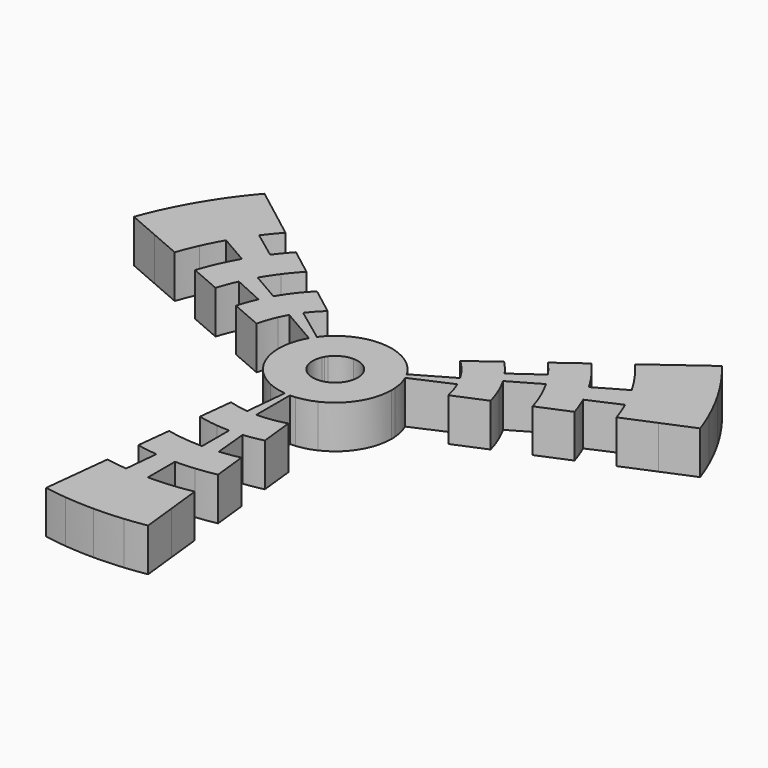
from build123d import *

# Parameters (mm, degrees)
F1_DEPTH = 4.826


with BuildPart() as f1:
    # F0 (on Top) → F1 (new body)
    with BuildSketch(Plane.XY):
        with BuildLine():
            Line((-27.43190136, 12.4743187652), (-23.9636562535, 10.8971770846))
            ThreePointArc((-23.9636562535, 10.8971770846), (-23.4083038641, 12.0439445221), (-22.7981132352, 13.1624968134))
            Line((-22.7981132352, 13.1624968134), (-26.0976700236, 15.0674968134))
            ThreePointArc((-26.0976700236, 15.0674968134), (-26.7961731638, 13.7870571427), (-27.43190136, 12.4743187652))
        make_face()
        with BuildLine():
            Line((-6.3287775581, 0.5187240309), (-2.1997045256, -1.27))
            ThreePointArc((-2.1997045256, -1.27), (-2.5370247924, -0.1229032258), (-2.3121634044, 1.0514277871))
            Line((-2.3121634044, 1.0514277871), (-5.7804085109, 2.6285694678))
            ThreePointArc((-5.7804085109, 2.6285694678), (-6.1458082264, 1.5973544518), (-6.3287775581, 0.5187240309))
        make_face()
        with BuildLine():
            Line((-5.7804085109, 2.6285694678), (-2.3121634044, 1.0514277871))
            ThreePointArc((-2.3121634044, 1.0514277871), (-2.2585795331, 1.1620750804), (-2.1997045256, 1.27))
            Line((-2.1997045256, 1.27), (-5.499261314, 3.175))
            ThreePointArc((-5.499261314, 3.175), (-5.6464488328, 2.9051877011), (-5.7804085109, 2.6285694678))
        make_face()
        with BuildLine():
            Line((-2.0381194276, 1.5158064516), (-5.0952985691, 3.789516129))
            ThreePointArc((-5.0952985691, 3.789516129), (-5.3061834022, 3.4881109075), (-5.499261314, 3.175))
            Line((-5.499261314, 3.175), (-2.1997045256, 1.27))
            ThreePointArc((-2.1997045256, 1.27), (-2.1224733609, 1.395244363), (-2.0381194276, 1.5158064516))
        make_face()
        with BuildLine():
            Line((0, 2.54), (-3.5576053522, 5.2598425982))
            ThreePointArc((-3.5576053522, 5.2598425982), (-4.3884680185, 4.5895368449), (-5.0952985691, 3.789516129))
            Line((-5.0952985691, 3.789516129), (-2.0381194276, 1.5158064516))
            ThreePointArc((-2.0381194276, 1.5158064516), (-1.1404936679, 2.2695537433), (0, 2.54))
        make_face()
        with BuildLine():
            Line((0, 2.54), (3.6351246845, 5.2065697468))
            ThreePointArc((3.6351246845, 5.2065697468), (0.0470298936, 6.3498258393), (-3.5576053522, 5.2598425982))
            Line((-3.5576053522, 5.2598425982), (0, 2.54))
        make_face()
        with BuildLine():
            Line((2.0666448761, 1.4766783523), (5.1666121902, 3.6916958808))
            ThreePointArc((5.1666121902, 3.6916958808), (4.4655742867, 4.514548293), (3.6351246845, 5.2065697468))
            Line((3.6351246845, 5.2065697468), (0, 2.54))
            ThreePointArc((0, 2.54), (1.1620750804, 2.2585795331), (2.0666448761, 1.4766783523))
        make_face()
        with BuildLine():
            Line((2.1997045256, 1.27), (5.499261314, 3.175))
            ThreePointArc((5.499261314, 3.175), (5.3391907683, 3.4373742798), (5.1666121902, 3.6916958808))
            Line((5.1666121902, 3.6916958808), (2.0666448761, 1.4766783523))
            ThreePointArc((2.0666448761, 1.4766783523), (2.1356763073, 1.3749497119), (2.1997045256, 1.27))
        make_face()
        with BuildLine():
            Line((2.3243553032, 1.0241935484), (5.810888258, 2.560483871))
            ThreePointArc((5.810888258, 2.560483871), (5.663415785, 2.871971735), (5.499261314, 3.175))
            Line((5.499261314, 3.175), (2.1997045256, 1.27))
            ThreePointArc((2.1997045256, 1.27), (2.265366314, 1.148788694), (2.3243553032, 1.0241935484))
        make_face()
        with BuildLine():
            Line((2.1997045256, -1.27), (6.3331285888, 0.4625821845))
            ThreePointArc((6.3331285888, 0.4625821845), (6.1619464591, 1.5339217173), (5.810888258, 2.560483871))
            Line((5.810888258, 2.560483871), (2.3243553032, 1.0241935484))
            ThreePointArc((2.3243553032, 1.0241935484), (2.4855042215, 0.5233247223), (2.54, 0))
            ThreePointArc((2.54, 0), (2.4534515988, -0.6574003746), (2.1997045256, -1.27))
        make_face()
        with BuildLine():
            ThreePointArc((2.6919701235, -5.751156132), (5.3580085052, -3.4079678487), (6.35, 0))
            ThreePointArc((6.35, 0), (6.3457807455, 0.2314448757), (6.3331285888, 0.4625821845))
            Line((6.3331285888, 0.4625821845), (2.1997045256, -1.27))
            Line((2.1997045256, -1.27), (2.6919701235, -5.751156132))
        make_face()
        with BuildLine():
            ThreePointArc((0.614516129, -6.3201954026), (1.6775470955, -6.1244049297), (2.6919701235, -5.751156132))
            Line((2.6919701235, -5.751156132), (2.1997045256, -1.27))
            ThreePointArc((2.1997045256, -1.27), (1.3750713253, -2.1355980076), (0.2458064516, -2.528078161))
            Line((0.2458064516, -2.528078161), (0.614516129, -6.3201954026))
        make_face()
        with BuildLine():
            ThreePointArc((0, -6.35), (0.3076192398, -6.3425444739), (0.614516129, -6.3201954026))
            Line((0.614516129, -6.3201954026), (0.2458064516, -2.528078161))
            ThreePointArc((0.2458064516, -2.528078161), (0.1230476959, -2.5370177896), (0, -2.54))
            Line((0, -2.54), (0, -6.35))
        make_face()
        with BuildLine():
            ThreePointArc((-0.614516129, -6.3201954026), (-0.3076192398, -6.3425444739), (0, -6.35))
            Line((0, -6.35), (0, -2.54))
            ThreePointArc((0, -2.54), (-0.1230476959, -2.5370177896), (-0.2458064516, -2.528078161))
            Line((-0.2458064516, -2.528078161), (-0.614516129, -6.3201954026))
        make_face()
        with BuildLine():
            ThreePointArc((-2.6919701235, -5.751156132), (-1.6775470955, -6.1244049297), (-0.614516129, -6.3201954026))
            Line((-0.614516129, -6.3201954026), (-0.2458064516, -2.528078161))
            ThreePointArc((-0.2458064516, -2.528078161), (-1.3750713253, -2.1355980076), (-2.1997045256, -1.27))
            Line((-2.1997045256, -1.27), (-2.6919701235, -5.751156132))
        make_face()
        with BuildLine():
            ThreePointArc((-6.3287775581, 0.5187240309), (-5.492842752, -3.1860914146), (-2.6919701235, -5.751156132))
            Line((-2.6919701235, -5.751156132), (-2.1997045256, -1.27))
            Line((-2.1997045256, -1.27), (-6.3287775581, 0.5187240309))
        make_face()
        with BuildLine():
            ThreePointArc((-21.1234176939, 15.7100768417), (-20.3955005903, 16.6441835221), (-19.6263095891, 17.5446077573))
            Line((-19.6263095891, 17.5446077573), (-22.6608896218, 19.8645896618))
            ThreePointArc((-22.6608896218, 19.8645896618), (-23.4396153657, 18.9394369607), (-24.1805968354, 17.9837865192))
            Line((-24.1805968354, 17.9837865192), (-21.1234176939, 15.7100768417))
        make_face()
        with BuildLine():
            ThreePointArc((-22.7981132352, 13.1624968134), (-21.9976762589, 14.4605507729), (-21.1234176939, 15.7100768417))
            Line((-21.1234176939, 15.7100768417), (-24.1805968354, 17.9837865192))
            ThreePointArc((-24.1805968354, 17.9837865192), (-25.1813863002, 16.5534173174), (-26.0976700236, 15.0674968134))
            Line((-26.0976700236, 15.0674968134), (-22.7981132352, 13.1624968134))
        make_face()
        with BuildLine():
            Line((-28.3992501251, 10.0797040241), (-24.8939919488, 8.5612180382))
            ThreePointArc((-24.8939919488, 8.5612180382), (-24.4567296083, 9.7403114075), (-23.9636562535, 10.8971770846))
            Line((-23.9636562535, 10.8971770846), (-27.43190136, 12.4743187652))
            ThreePointArc((-27.43190136, 12.4743187652), (-27.9412403801, 11.2873790981), (-28.3992501251, 10.0797040241))
        make_face()
        with BuildLine():
            Line((-21.3856019618, 7.0413753446), (-17.8721482534, 5.5193390352))
            ThreePointArc((-17.8721482534, 5.5193390352), (-17.4850388448, 6.6445619246), (-17.0271660404, 7.7428937232))
            Line((-17.0271660404, 7.7428937232), (-20.4954111469, 9.3200354039))
            ThreePointArc((-20.4954111469, 9.3200354039), (-20.9714779562, 8.1928047909), (-21.3856019618, 7.0413753446))
        make_face()
        with BuildLine():
            Line((-20.4954111469, 9.3200354039), (-17.0271660404, 7.7428937232))
            ThreePointArc((-17.0271660404, 7.7428937232), (-16.6325652648, 8.5577192808), (-16.1989996584, 9.3524968134))
            Line((-16.1989996584, 9.3524968134), (-19.4985564468, 11.2574968134))
            ThreePointArc((-19.4985564468, 11.2574968134), (-20.0204345645, 10.3008319014), (-20.4954111469, 9.3200354039))
        make_face()
        with BuildLine():
            ThreePointArc((-16.1989996584, 9.3524968134), (-15.6302561763, 10.274817684), (-15.0090594111, 11.1626574869))
            Line((-15.0090594111, 11.1626574869), (-18.0662385525, 13.4363671643))
            ThreePointArc((-18.0662385525, 13.4363671643), (-18.8139662176, 12.3676842285), (-19.4985564468, 11.2574968134))
            Line((-19.4985564468, 11.2574968134), (-16.1989996584, 9.3524968134))
        make_face()
        with BuildLine():
            ThreePointArc((-15.0090594111, 11.1626574869), (-14.3046251123, 12.0521569427), (-13.5475542746, 12.8973082366))
            Line((-13.5475542746, 12.8973082366), (-16.5890765474, 15.2225975877))
            ThreePointArc((-16.5890765474, 15.2225975877), (-17.3506590926, 14.3485040008), (-18.0662385525, 13.4363671643))
            Line((-18.0662385525, 13.4363671643), (-15.0090594111, 11.1626574869))
        make_face()
        with BuildLine():
            ThreePointArc((-8.8947011282, 6.6152381321), (-8.2036237184, 7.4550413541), (-7.4335753806, 8.2230797616))
            Line((-7.4335753806, 8.2230797616), (-10.4984050069, 10.5661879337))
            ThreePointArc((-10.4984050069, 10.5661879337), (-11.2564253144, 9.7546770465), (-11.9518802696, 8.8889478095))
            Line((-11.9518802696, 8.8889478095), (-8.8947011282, 6.6152381321))
        make_face()
        with BuildLine():
            ThreePointArc((-9.5998860815, 5.5424968134), (-9.2628360937, 6.089084595), (-8.8947011282, 6.6152381321))
            Line((-8.8947011282, 6.6152381321), (-11.9518802696, 8.8889478095))
            ThreePointArc((-11.9518802696, 8.8889478095), (-12.446546135, 8.1819511395), (-12.8994428699, 7.4474968134))
            Line((-12.8994428699, 7.4474968134), (-9.5998860815, 5.5424968134))
        make_face()
        with BuildLine():
            Line((-13.5589209338, 6.1657520425), (-10.0906758273, 4.5886103619))
            ThreePointArc((-10.0906758273, 4.5886103619), (-9.8568266654, 5.0714940395), (-9.5998860815, 5.5424968134))
            Line((-9.5998860815, 5.5424968134), (-12.8994428699, 7.4474968134))
            ThreePointArc((-12.8994428699, 7.4474968134), (-13.2446959651, 6.8146066601), (-13.5589209338, 6.1657520425))
        make_face()
        with BuildLine():
            Line((-14.3496891611, 3.9934015726), (-10.8087108824, 2.4594415554))
            ThreePointArc((-10.8087108824, 2.4594415554), (-10.5037817553, 3.5422665826), (-10.0906758273, 4.5886103619))
            Line((-10.0906758273, 4.5886103619), (-13.5589209338, 6.1657520425))
            ThreePointArc((-13.5589209338, 6.1657520425), (-13.996514066, 5.0949415248), (-14.3496891611, 3.9934015726))
        make_face()
        with BuildLine():
            ThreePointArc((-5.499261314, 3.175), (-5.3061834022, 3.4881109075), (-5.0952985691, 3.789516129))
            Line((-5.0952985691, 3.789516129), (-8.8947011282, 6.6152381321))
            ThreePointArc((-8.8947011282, 6.6152381321), (-9.2628360937, 6.089084595), (-9.5998860815, 5.5424968134))
            Line((-9.5998860815, 5.5424968134), (-5.499261314, 3.175))
        make_face()
        with BuildLine():
            Line((-17.0271660404, 7.7428937232), (-13.5589209338, 6.1657520425))
            ThreePointArc((-13.5589209338, 6.1657520425), (-13.2446959651, 6.8146066601), (-12.8994428699, 7.4474968134))
            Line((-12.8994428699, 7.4474968134), (-16.1989996584, 9.3524968134))
            ThreePointArc((-16.1989996584, 9.3524968134), (-16.6325652648, 8.5577192808), (-17.0271660404, 7.7428937232))
        make_face()
        with BuildLine():
            ThreePointArc((-19.4985564468, 11.2574968134), (-18.8139662176, 12.3676842285), (-18.0662385525, 13.4363671643))
            Line((-18.0662385525, 13.4363671643), (-21.1234176939, 15.7100768417))
            ThreePointArc((-21.1234176939, 15.7100768417), (-21.9976762589, 14.4605507729), (-22.7981132352, 13.1624968134))
            Line((-22.7981132352, 13.1624968134), (-19.4985564468, 11.2574968134))
        make_face()
        with BuildLine():
            Line((-30.9001464666, 14.0514604459), (-27.43190136, 12.4743187652))
            ThreePointArc((-27.43190136, 12.4743187652), (-26.7961731638, 13.7870571427), (-26.0976700236, 15.0674968134))
            Line((-26.0976700236, 15.0674968134), (-29.397226812, 16.9724968134))
            ThreePointArc((-29.397226812, 16.9724968134), (-30.1840424635, 15.5301697633), (-30.9001464666, 14.0514604459))
        make_face()
        with BuildLine():
            ThreePointArc((5.499261314, 3.175), (5.663415785, 2.871971735), (5.810888258, 2.560483871))
            Line((5.810888258, 2.560483871), (10.1438833551, 4.4697554946))
            ThreePointArc((10.1438833551, 4.4697554946), (9.8864453357, 5.0135099809), (9.5998860815, 5.5424968134))
            Line((9.5998860815, 5.5424968134), (5.499261314, 3.175))
        make_face()
        with BuildLine():
            ThreePointArc((7.5727816439, 8.0950640441), (8.3369358509, 7.3056542707), (9.0191910551, 6.4444764268))
            Line((9.0191910551, 6.4444764268), (12.1191583692, 8.6594939553))
            ThreePointArc((12.1191583692, 8.6594939553), (11.4342339561, 9.545634027), (10.684662213, 10.3778046106))
            Line((10.684662213, 10.3778046105), (7.5727816439, 8.0950640441))
        make_face()
        with BuildLine():
            ThreePointArc((9.0191910551, 6.4444764268), (9.320456006, 6.0005152732), (9.5998860815, 5.5424968134))
            Line((9.5998860815, 5.5424968134), (12.8994428699, 7.4474968134))
            ThreePointArc((12.8994428699, 7.4474968134), (12.523970467, 8.0629398411), (12.1191583692, 8.6594939553))
            Line((12.1191583692, 8.6594939553), (9.0191910551, 6.4444764268))
        make_face()
        with BuildLine():
            ThreePointArc((9.5998860815, 5.5424968134), (9.8864453357, 5.0135099809), (10.1438833551, 4.4697554946))
            Line((10.1438833551, 4.4697554946), (13.6304163099, 6.0060458172))
            ThreePointArc((13.6304163099, 6.0060458172), (13.2844948067, 6.7366930219), (12.8994428699, 7.4474968134))
            Line((12.8994428699, 7.4474968134), (9.5998860815, 5.5424968134))
        make_face()
        with BuildLine():
            ThreePointArc((10.1438833551, 4.4697554946), (10.5420499696, 3.4266990156), (10.8332747403, 2.3488810327))
            Line((10.8332747403, 2.3488810327), (14.3914122895, 3.8403238736))
            ThreePointArc((14.3914122895, 3.8403238736), (14.0526975132, 4.9378667198), (13.6304163099, 6.0060458172))
            Line((13.6304163099, 6.0060458172), (10.1438833551, 4.4697554946))
        make_face()
        with BuildLine():
            ThreePointArc((13.780132452, 12.6485072708), (14.5267342635, 11.7834960098), (15.2191256833, 10.8745114838))
            Line((15.2191256833, 10.8745114838), (18.3190929974, 13.0895290123))
            ThreePointArc((18.3190929974, 13.0895290123), (17.6169759998, 14.0202387509), (16.8676236103, 14.9133568237))
            Line((16.8676236103, 14.9133568237), (13.780132452, 12.6485072708))
        make_face()
        with BuildLine():
            ThreePointArc((15.2191256833, 10.8745114838), (15.727484928, 10.125364409), (16.1989996584, 9.3524968134))
            Line((16.1989996584, 9.3524968134), (19.4985564468, 11.2574968134))
            ThreePointArc((19.4985564468, 11.2574968134), (18.930999389, 12.1877889769), (18.3190929974, 13.0895290123))
            Line((18.3190929974, 13.0895290123), (15.2191256833, 10.8745114838))
        make_face()
        with BuildLine():
            ThreePointArc((16.1989996584, 9.3524968134), (16.6825442777, 8.4598760628), (17.1169492647, 7.5423361398))
            Line((17.1169492647, 7.5423361398), (20.6034822195, 9.0786264624))
            ThreePointArc((20.6034822195, 9.0786264624), (20.0805937487, 10.1830591038), (19.4985564468, 11.2574968134))
            Line((19.4985564468, 11.2574968134), (16.1989996584, 9.3524968134))
        make_face()
        with BuildLine():
            ThreePointArc((17.1169492647, 7.5423361398), (17.5591760617, 6.4460935931), (17.9312763086, 5.3241071103))
            Line((17.9312763086, 5.3241071103), (21.4622524133, 6.804164854))
            ThreePointArc((21.4622524133, 6.804164854), (21.0635894721, 7.9529954458), (20.6034822195, 9.0786264624))
            Line((20.6034822195, 9.0786264624), (17.1169492647, 7.5423361398))
        make_face()
        with BuildLine():
            ThreePointArc((12.1191583692, 8.6594939553), (12.523970467, 8.0629398411), (12.8994428699, 7.4474968134))
            Line((12.8994428699, 7.4474968134), (16.1989996584, 9.3524968134))
            ThreePointArc((16.1989996584, 9.3524968134), (15.727484928, 10.125364409), (15.2191256833, 10.8745114838))
            Line((15.2191256833, 10.8745114838), (12.1191583692, 8.6594939553))
        make_face()
        with BuildLine():
            ThreePointArc((19.4985564468, 11.2574968134), (20.0805937487, 10.1830591038), (20.6034822195, 9.0786264624))
            Line((20.6034822195, 9.0786264624), (24.0900151742, 10.614916785))
            ThreePointArc((24.0900151742, 10.614916785), (23.4786432196, 11.9062421448), (22.7981132352, 13.1624968134))
            Line((22.7981132352, 13.1624968134), (19.4985564468, 11.2574968134))
        make_face()
        with BuildLine():
            ThreePointArc((19.9506283675, 17.1749153474), (20.7059739017, 16.2563198243), (21.4190603115, 15.3045465408))
            Line((21.4190603115, 15.3045465408), (24.5190276256, 17.5195640693))
            ThreePointArc((24.5190276256, 17.5195640693), (23.7942136376, 18.4919776728), (23.0308584569, 19.4344384951))
            Line((23.0308584569, 19.4344384951), (19.9506283675, 17.1749153474))
        make_face()
        with BuildLine():
            ThreePointArc((21.4190603115, 15.3045465408), (22.1345138499, 14.2502135448), (22.7981132352, 13.1624968134))
            Line((22.7981132352, 13.1624968134), (26.0976700236, 15.0674968134))
            ThreePointArc((26.0976700236, 15.0674968134), (25.3380283109, 16.3126381127), (24.5190276256, 17.5195640693))
            Line((24.5190276256, 17.5195640693), (21.4190603115, 15.3045465408))
        make_face()
        with BuildLine():
            ThreePointArc((22.7981132352, 13.1624968134), (23.4786432196, 11.9062421448), (24.0900151742, 10.614916785))
            Line((24.0900151742, 10.614916785), (27.576548129, 12.1512071075))
            ThreePointArc((27.576548129, 12.1512071075), (26.8766926906, 13.6294251858), (26.0976700236, 15.0674968134))
            Line((26.0976700236, 15.0674968134), (22.7981132352, 13.1624968134))
        make_face()
        with BuildLine():
            ThreePointArc((24.0900151742, 10.614916785), (24.5668276536, 9.4591896315), (24.9882302926, 8.282127522))
            Line((24.9882302926, 8.282127522), (28.511116671, 9.7587943445))
            ThreePointArc((28.511116671, 9.7587943445), (28.0693328276, 10.9649621749), (27.576548129, 12.1512071075))
            Line((27.576548129, 12.1512071075), (24.0900151742, 10.614916785))
        make_face()
        with BuildLine():
            ThreePointArc((23.0308584569, 19.4344384951), (23.7942136376, 18.4919776728), (24.5190276256, 17.5195640693))
            Line((24.5190276256, 17.5195640693), (27.6189949397, 19.7345815977))
            ThreePointArc((27.6189949397, 19.7345815977), (26.8819570206, 20.7273485777), (26.1092523738, 21.6926147064))
            Line((26.1092523738, 21.6926147064), (23.0308584569, 19.4344384951))
        make_face()
        with BuildLine():
            ThreePointArc((24.5190276256, 17.5195640693), (25.3380283109, 16.3126381127), (26.0976700236, 15.0674968134))
            Line((26.0976700236, 15.0674968134), (29.397226812, 16.9724968134))
            ThreePointArc((29.397226812, 16.9724968134), (28.5415427719, 18.3750626806), (27.6189949397, 19.7345815977))
            Line((27.6189949397, 19.7345815977), (24.5190276256, 17.5195640693))
        make_face()
        with BuildLine():
            ThreePointArc((26.0976700236, 15.0674968134), (26.8766926906, 13.6294251858), (27.576548129, 12.1512071075))
            Line((27.576548129, 12.1512071075), (31.0630810838, 13.6874974301))
            ThreePointArc((31.0630810838, 13.6874974301), (30.2747421616, 15.3526082268), (29.397226812, 16.9724968134))
            Line((29.397226812, 16.9724968134), (26.0976700236, 15.0674968134))
        make_face()
        with BuildLine():
            ThreePointArc((27.576548129, 12.1512071075), (28.0693328276, 10.9649621749), (28.511116671, 9.7587943445))
            Line((28.511116671, 9.7587943445), (32.0319570876, 11.2346035736))
            ThreePointArc((32.0319570876, 11.2346035736), (31.5713498687, 12.4704634953), (31.0630810838, 13.6874974301))
            Line((31.0630810838, 13.6874974301), (27.576548129, 12.1512071075))
        make_face()
        with BuildLine():
            Line((-31.9024357463, 11.5972921742), (-28.3992501251, 10.0797040241))
            ThreePointArc((-28.3992501251, 10.0797040241), (-27.9412403801, 11.2873790981), (-27.43190136, 12.4743187652))
            Line((-27.43190136, 12.4743187652), (-30.9001464666, 14.0514604459))
            ThreePointArc((-30.9001464666, 14.0514604459), (-31.4252576541, 12.8341643161), (-31.9024357463, 11.5972921742))
        make_face()
        with BuildLine():
            ThreePointArc((-26.0976700236, 15.0674968134), (-25.1813863002, 16.5534173174), (-24.1805968354, 17.9837865192))
            Line((-24.1805968354, 17.9837865192), (-27.2377759768, 20.2574961966))
            ThreePointArc((-27.2377759768, 20.2574961966), (-28.3650963415, 18.6462838619), (-29.397226812, 16.9724968134))
            Line((-29.397226812, 16.9724968134), (-26.0976700236, 15.0674968134))
        make_face()
        with BuildLine():
            ThreePointArc((-24.1805968354, 17.9837865192), (-23.4396153657, 18.9394369607), (-22.6608896218, 19.8645896618))
            Line((-22.6608896218, 19.8645896618), (-25.6937138729, 22.183229245))
            ThreePointArc((-25.6937138729, 22.183229245), (-26.483254452, 21.2344019447), (-27.2377759768, 20.2574961966))
            Line((-27.2377759768, 20.2574961966), (-24.1805968354, 17.9837865192))
        make_face()
        with BuildLine():
            Line((0, -11.0849936267), (0, -6.35))
            ThreePointArc((0, -6.35), (-0.3076192398, -6.3425444739), (-0.614516129, -6.3201954026))
            Line((-0.614516129, -6.3201954026), (-1.0727413187, -11.0329646862))
            ThreePointArc((-1.0727413187, -11.0329646862), (-0.5370011517, -11.0719787512), (0, -11.0849936267))
        make_face()
        with BuildLine():
            Line((-1.4414509961, -14.8250819278), (-1.0727413187, -11.0329646862))
            ThreePointArc((-1.0727413187, -11.0329646862), (-2.1595883702, -10.8725922289), (-3.2252229407, -10.6054241163))
            Line((-3.2252229407, -10.6054241163), (-3.6466472977, -14.4417034531))
            ThreePointArc((-3.6466472977, -14.4417034531), (-2.5512606346, -14.6748732299), (-1.4414509961, -14.8250819278))
        make_face()
        with BuildLine():
            Line((0, -14.8949936267), (0, -11.0849936267))
            ThreePointArc((0, -11.0849936267), (-0.5370011517, -11.0719787512), (-1.0727413187, -11.0329646862))
            Line((-1.0727413187, -11.0329646862), (-1.4414509961, -14.8250819278))
            ThreePointArc((-1.4414509961, -14.8250819278), (-0.7215726956, -14.8775054355), (0, -14.8949936267))
        make_face()
        with BuildLine():
            Line((1.4414509961, -14.8250819278), (1.0727413187, -11.0329646862))
            ThreePointArc((1.0727413187, -11.0329646862), (0.5370011517, -11.0719787512), (0, -11.0849936267))
            Line((0, -11.0849936267), (0, -14.8949936267))
            ThreePointArc((0, -14.8949936267), (0.7215726956, -14.8775054355), (1.4414509961, -14.8250819278))
        make_face()
        with BuildLine():
            Line((3.6466472977, -14.4417034531), (3.2252229407, -10.6054241163))
            ThreePointArc((3.2252229407, -10.6054241163), (2.1595883702, -10.8725922289), (1.0727413187, -11.0329646862))
            Line((1.0727413187, -11.0329646862), (1.4414509961, -14.8250819278))
            ThreePointArc((1.4414509961, -14.8250819278), (2.5512606346, -14.6748732299), (3.6466472977, -14.4417034531))
        make_face()
        with BuildLine():
            Line((1.8101606736, -18.6171991694), (1.4414509961, -14.8250819278))
            ThreePointArc((1.4414509961, -14.8250819278), (0.7215726956, -14.8775054355), (0, -14.8949936267))
            Line((0, -14.8949936267), (0, -18.7049936267))
            ThreePointArc((0, -18.7049936267), (0.9061442395, -18.6830321199), (1.8101606736, -18.6171991694))
        make_face()
        with BuildLine():
            Line((-2.178870351, -22.4093164109), (-1.8101606736, -18.6171991694))
            ThreePointArc((-1.8101606736, -18.6171991694), (-2.9434969514, -18.4719412156), (-4.0658496901, -18.2577559649))
            Line((-4.0658496901, -18.2577559649), (-4.4839717098, -22.0639737064))
            ThreePointArc((-4.4839717098, -22.0639737064), (-3.3358929056, -22.2664940333), (-2.178870351, -22.4093164109))
        make_face()
        with BuildLine():
            Line((0, -22.5149936267), (0, -18.7049936267))
            ThreePointArc((0, -18.7049936267), (-0.9061442395, -18.6830321199), (-1.8101606736, -18.6171991694))
            Line((-1.8101606736, -18.6171991694), (-2.178870351, -22.4093164109))
            ThreePointArc((-2.178870351, -22.4093164109), (-1.0907157834, -22.4885588042), (0, -22.5149936267))
        make_face()
        with BuildLine():
            Line((2.178870351, -22.4093164109), (1.8101606736, -18.6171991694))
            ThreePointArc((1.8101606736, -18.6171991694), (0.9061442395, -18.6830321199), (0, -18.7049936267))
            Line((0, -18.7049936267), (0, -22.5149936267))
            ThreePointArc((0, -22.5149936267), (1.0907157834, -22.4885588042), (2.178870351, -22.4093164109))
        make_face()
        with BuildLine():
            Line((4.4839717098, -22.0639737064), (4.0658496901, -18.2577559649))
            ThreePointArc((4.0658496901, -18.2577559649), (2.9434969514, -18.4719412156), (1.8101606736, -18.6171991694))
            Line((1.8101606736, -18.6171991694), (2.178870351, -22.4093164109))
            ThreePointArc((2.178870351, -22.4093164109), (3.3358929056, -22.2664940333), (4.4839717098, -22.0639737064))
        make_face()
        with BuildLine():
            Line((0, -26.3249936267), (0, -22.5149936267))
            ThreePointArc((0, -22.5149936267), (-1.0907157834, -22.4885588042), (-2.178870351, -22.4093164109))
            Line((-2.178870351, -22.4093164109), (-2.5475800284, -26.2014336525))
            ThreePointArc((-2.5475800284, -26.2014336525), (-1.2752873273, -26.2940854886), (0, -26.3249936267))
        make_face()
        with BuildLine():
            Line((-2.9162897058, -29.993550894), (-2.5475800284, -26.2014336525))
            ThreePointArc((-2.5475800284, -26.2014336525), (-3.7283375673, -26.0596390695), (-4.9014862671, -25.8646616413))
            Line((-4.9014862671, -25.8646616413), (-5.3186251319, -29.6619295999))
            ThreePointArc((-5.3186251319, -29.6619295999), (-4.1207946766, -29.8519160543), (-2.9162897058, -29.993550894))
        make_face()
        with BuildLine():
            Line((0, -30.1349936267), (0, -26.3249936267))
            ThreePointArc((0, -26.3249936267), (-1.2752873273, -26.2940854886), (-2.5475800284, -26.2014336525))
            Line((-2.5475800284, -26.2014336525), (-2.9162897058, -29.993550894))
            ThreePointArc((-2.9162897058, -29.993550894), (-1.4598588712, -30.0996121729), (0, -30.1349936267))
        make_face()
        with BuildLine():
            Line((2.9162897058, -29.993550894), (2.5475800284, -26.2014336525))
            ThreePointArc((2.5475800284, -26.2014336525), (1.2752873273, -26.2940854886), (0, -26.3249936267))
            Line((0, -26.3249936267), (0, -30.1349936267))
            ThreePointArc((0, -30.1349936267), (1.4598588712, -30.0996121729), (2.9162897058, -29.993550894))
        make_face()
        with BuildLine():
            Line((5.3186251319, -29.6619295999), (4.9014862671, -25.8646616413))
            ThreePointArc((4.9014862671, -25.8646616413), (3.7283375673, -26.0596390695), (2.5475800284, -26.2014336525))
            Line((2.5475800284, -26.2014336525), (2.9162897058, -29.993550894))
            ThreePointArc((2.9162897058, -29.993550894), (4.1207946766, -29.8519160543), (5.3186251319, -29.6619295999))
        make_face()
        with BuildLine():
            Line((-3.2849993832, -33.7856681356), (-2.9162897058, -29.993550894))
            ThreePointArc((-2.9162897058, -29.993550894), (-4.1207946766, -29.8519160543), (-5.3186251319, -29.6619295999))
            Line((-5.3186251319, -29.6619295999), (-5.7355153773, -33.4569343436))
            ThreePointArc((-5.7355153773, -33.4569343436), (-4.5132513904, -33.6436198142), (-3.2849993832, -33.7856681356))
        make_face()
        with BuildLine():
            Line((0, -33.9449936267), (0, -30.1349936267))
            ThreePointArc((0, -30.1349936267), (-1.4598588712, -30.0996121729), (-2.9162897058, -29.993550894))
            Line((-2.9162897058, -29.993550894), (-3.2849993832, -33.7856681356))
            ThreePointArc((-3.2849993832, -33.7856681356), (-1.6444304151, -33.9051388572), (0, -33.9449936267))
        make_face()
        with BuildLine():
            Line((3.2849993832, -33.7856681356), (2.9162897058, -29.993550894))
            ThreePointArc((2.9162897058, -29.993550894), (1.4598588712, -30.0996121729), (0, -30.1349936267))
            Line((0, -30.1349936267), (0, -33.9449936267))
            ThreePointArc((0, -33.9449936267), (1.6444304151, -33.9051388572), (3.2849993832, -33.7856681356))
        make_face()
        with BuildLine():
            Line((5.7355153773, -33.4569343436), (5.3186251319, -29.6619295999))
            ThreePointArc((5.3186251319, -29.6619295999), (4.1207946766, -29.8519160543), (2.9162897058, -29.993550894))
            Line((2.9162897058, -29.993550894), (3.2849993832, -33.7856681356))
            ThreePointArc((3.2849993832, -33.7856681356), (4.5132513904, -33.6436198142), (5.7355153773, -33.4569343436))
        make_face()
    extrude(amount=F1_DEPTH)


solid = f1.part
